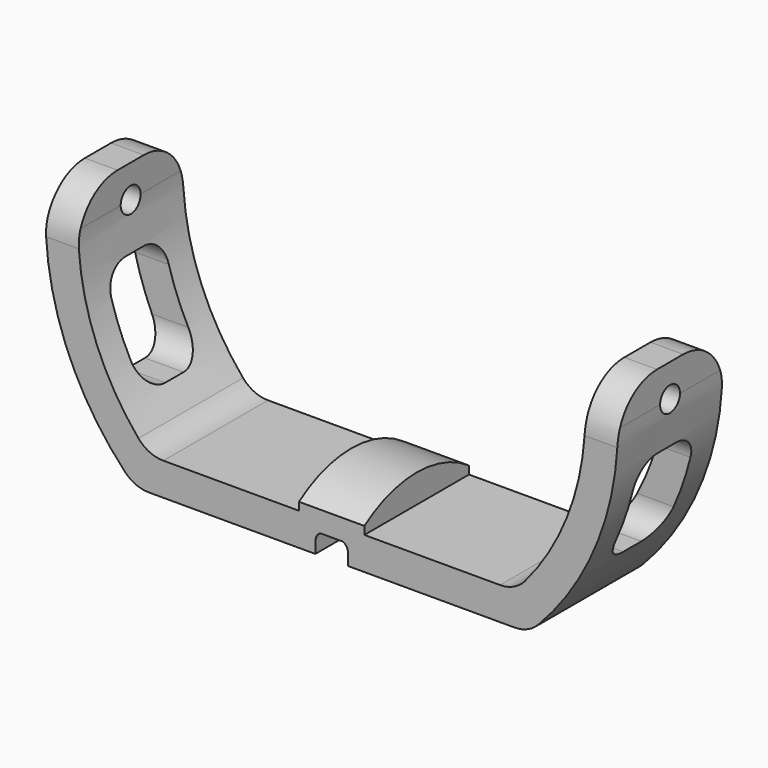
from build123d import *

# Parameters (mm, degrees)
F1_DEPTH  = 50.8
F2_R      = 25.4
F3_R      = 38.1
F4_R      = 9.652
F5_DEPTH  = 241.3
F8_DEPTH  = 25.4
F10_DEPTH = 12.7
F12_DEPTH = 279.4
F13_R     = 5.08


with BuildPart() as f1:
    # F0 (on Front) → F1 (new body, symmetric)
    with BuildSketch(Plane.XZ):
        with BuildLine():
            ThreePointArc((-142.028809, -136.300183), (-182.631177, -73.455944), (-196.85, 0))
            Line((-196.85, 0), (-196.85, 25.4))
            Line((-196.85, 25.4), (-222.25, 25.4))
            Line((-222.25, 25.4), (-222.25, 0))
            ThreePointArc((-222.25, 0), (-204.061581, -88.056423), (-152.47332, -161.700183))
            Line((-152.47332, -161.700183), (-112.262965, -161.700183))
            Line((-112.262965, -161.700183), (112.262965, -161.700183))
            Line((112.262965, -161.700183), (152.47332, -161.700183))
            ThreePointArc((152.47332, -161.700183), (204.061581, -88.056423), (222.25, 0))
            Line((222.25, 0), (222.25, 25.4))
            Line((222.25, 25.4), (196.85, 25.4))
            Line((196.85, 25.4), (196.85, 0))
            ThreePointArc((196.85, 0), (182.631177, -73.455944), (142.028809, -136.300183))
            Line((142.028809, -136.300183), (-142.028809, -136.300183))
        make_face()
    extrude(amount=F1_DEPTH, both=True)

    # F2
    f2_edges = [f1.edges().sort_by_distance(p)[0] for p in [
        (-142.028809, 0, -136.300183),
        (-152.47332, 0, -161.700183),
        (152.47332, 0, -161.700183),
        (142.028809, 0, -136.300183),
    ]]
    fillet(f2_edges, radius=F2_R)

    # F3
    f3_edges = [f1.edges().sort_by_distance(p)[0] for p in [
        (-209.55, -50.8, 25.4),
        (-209.55, 50.8, 25.4),
        (209.55, 50.8, 25.4),
        (209.55, -50.8, 25.4),
    ]]
    fillet(f3_edges, radius=F3_R)

    # F4 (on Right) → F5 (cut, symmetric)
    with BuildSketch(Plane.YZ):
        Circle(F4_R)
    extrude(amount=F5_DEPTH, both=True, mode=Mode.SUBTRACT)

    # F7 (on Right) → F8 (join, symmetric)
    with BuildSketch(Plane.YZ):
        with BuildLine():
            Line((50.8, -153.887304), (50.8, -130.146238))
            ThreePointArc((50.8, -130.146238), (0, -114.202183), (-50.8, -130.146238))
            Line((-50.8, -130.146238), (-50.8, -153.887304))
            Line((-50.8, -153.887304), (-50.8, -161.700183))
            Line((-50.8, -161.700183), (50.8, -161.700183))
            Line((50.8, -161.700183), (50.8, -153.887304))
        make_face()
    extrude(amount=F8_DEPTH, both=True)

    # F9 (on Right) → F10 (cut, symmetric)
    with BuildSketch(Plane.YZ):
        with BuildLine():
            Line((50.8, -161.700183), (63.9712, -161.700183))
            ThreePointArc((63.9712, -161.700183), (0, -126.902183), (-63.9712, -161.700183))
            Line((-63.9712, -161.700183), (-50.8, -161.700183))
            Line((-50.8, -161.700183), (50.8, -161.700183))
        make_face()
    extrude(amount=F10_DEPTH, both=True, mode=Mode.SUBTRACT)

    # F11 (on Right) → F12 (cut, symmetric)
    with BuildSketch(Plane.YZ):
        with BuildLine():
            Line((-8.89, -110.49), (8.89, -110.49))
            ThreePointArc((8.89, -110.49), (22.360384, -104.910384), (27.94, -91.44))
            Line((27.94, -91.44), (27.94, -53.34))
            ThreePointArc((27.94, -53.34), (22.360384, -39.869616), (8.89, -34.29))
            Line((8.89, -34.29), (-8.89, -34.29))
            ThreePointArc((-8.89, -34.29), (-22.360384, -39.869616), (-27.94, -53.34))
            Line((-27.94, -53.34), (-27.94, -91.44))
            ThreePointArc((-27.94, -91.44), (-22.360384, -104.910384), (-8.89, -110.49))
        make_face()
    extrude(amount=F12_DEPTH, both=True, mode=Mode.SUBTRACT)

    # F13
    f13_edges = [f1.edges().sort_by_distance(p)[0] for p in [
        (12.7, 0, -126.902183),
        (-12.7, 0, -126.902183),
    ]]
    fillet(f13_edges, radius=F13_R)


solid = f1.part
